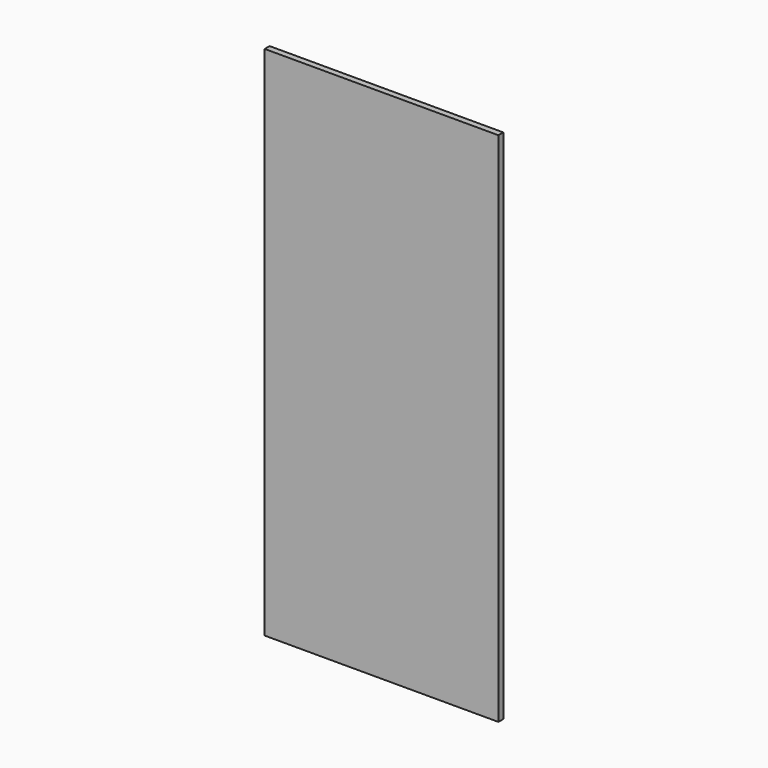
from build123d import *

# Parameters (mm, degrees)
F1_DEPTH = 12.7


with BuildPart() as f1:
    # F0 (on Front) → F1 (new body, symmetric)
    with BuildSketch(Plane.XZ):
        Polygon((408.432, -1066.8), (482.6, -1066.8), (482.6, -997.204), (0, -514.604), (0, -658.368), align=None)
        Polygon((264.668, -1066.8), (408.432, -1066.8), (0, -658.368), (0, -802.132), align=None)
        Polygon((0, -514.604), (482.6, -997.204), (482.6, -853.44), (0, -370.84), align=None)
        Polygon((120.904, -1066.8), (264.668, -1066.8), (0, -802.132), (0, -945.896), align=None)
        Polygon((-408.432, -1066.8), (0, -658.368), (0, -514.604), (-482.6, -997.204), (-482.6, -1066.8), align=None)
        Polygon((0, -802.132), (0, -658.368), (-408.432, -1066.8), (-264.668, -1066.8), align=None)
        Polygon((0, -370.84), (482.6, -853.44), (482.6, -709.676), (0, -227.076), align=None)
        Polygon((-482.6, -997.204), (0, -514.604), (0, -370.84), (-482.6, -853.44), align=None)
        Polygon((0, -1066.8), (120.904, -1066.8), (0, -945.896), align=None)
        Polygon((0, -945.896), (0, -802.132), (-264.668, -1066.8), (-120.904, -1066.8), align=None)
        Polygon((0, -227.076), (482.6, -709.676), (482.6, -565.912), (0, -83.312), align=None)
        Polygon((-482.6, -853.44), (0, -370.84), (0, -227.076), (-482.6, -709.676), align=None)
        Polygon((-120.904, -1066.8), (0, -1066.8), (0, -945.896), align=None)
        Polygon((0, -83.312), (482.6, -565.912), (482.6, -422.148), (0, 60.452), align=None)
        Polygon((-482.6, -709.676), (0, -227.076), (0, -83.312), (-482.6, -565.912), align=None)
        Polygon((0, 60.452), (482.6, -422.148), (482.6, -278.384), (0, 204.216), align=None)
        Polygon((-482.6, -565.912), (0, -83.312), (0, 60.452), (-482.6, -422.148), align=None)
        Polygon((0, 204.216), (482.6, -278.384), (482.6, -134.62), (0, 347.98), align=None)
        Polygon((-482.6, -422.148), (0, 60.452), (0, 204.216), (-482.6, -278.384), align=None)
        Polygon((0, 347.98), (482.6, -134.62), (482.6, 9.144), (0, 491.744), align=None)
        Polygon((-482.6, -278.384), (0, 204.216), (0, 347.98), (-482.6, -134.62), align=None)
        Polygon((0, 491.744), (482.6, 9.144), (482.6, 152.908), (0, 635.508), align=None)
        Polygon((-482.6, -134.62), (0, 347.98), (0, 491.744), (-482.6, 9.144), align=None)
        Polygon((0, 635.508), (482.6, 152.908), (482.6, 296.672), (0, 779.272), align=None)
        Polygon((-482.6, 9.144), (0, 491.744), (0, 635.508), (-482.6, 152.908), align=None)
        Polygon((0, 779.272), (482.6, 296.672), (482.6, 440.436), (0, 923.036), align=None)
        Polygon((-482.6, 152.908), (0, 635.508), (0, 779.272), (-482.6, 296.672), align=None)
        Polygon((0, 923.036), (482.6, 440.436), (482.6, 584.2), (0, 1066.8), align=None)
        Polygon((-482.6, 296.672), (0, 779.272), (0, 923.036), (-482.6, 440.436), align=None)
        Polygon((0, 1066.8), (482.6, 584.2), (482.6, 727.964), (143.764, 1066.8), align=None)
        Polygon((-482.6, 440.436), (0, 923.036), (0, 1066.8), (-482.6, 584.2), align=None)
        Polygon((143.764, 1066.8), (482.6, 727.964), (482.6, 871.728), (287.528, 1066.8), align=None)
        Polygon((-482.6, 584.2), (0, 1066.8), (-143.764, 1066.8), (-482.6, 727.964), align=None)
        Polygon((287.528, 1066.8), (482.6, 871.728), (482.6, 1015.492), (431.292, 1066.8), align=None)
        Polygon((-482.6, 727.964), (-143.764, 1066.8), (-287.528, 1066.8), (-482.6, 871.728), align=None)
        Polygon((431.292, 1066.8), (482.6, 1015.492), (482.6, 1066.8), align=None)
        Polygon((-482.6, 871.728), (-287.528, 1066.8), (-431.292, 1066.8), (-482.6, 1015.492), align=None)
        Polygon((-482.6, 1015.492), (-431.292, 1066.8), (-482.6, 1066.8), align=None)
    extrude(amount=F1_DEPTH, both=True)


solid = f1.part
